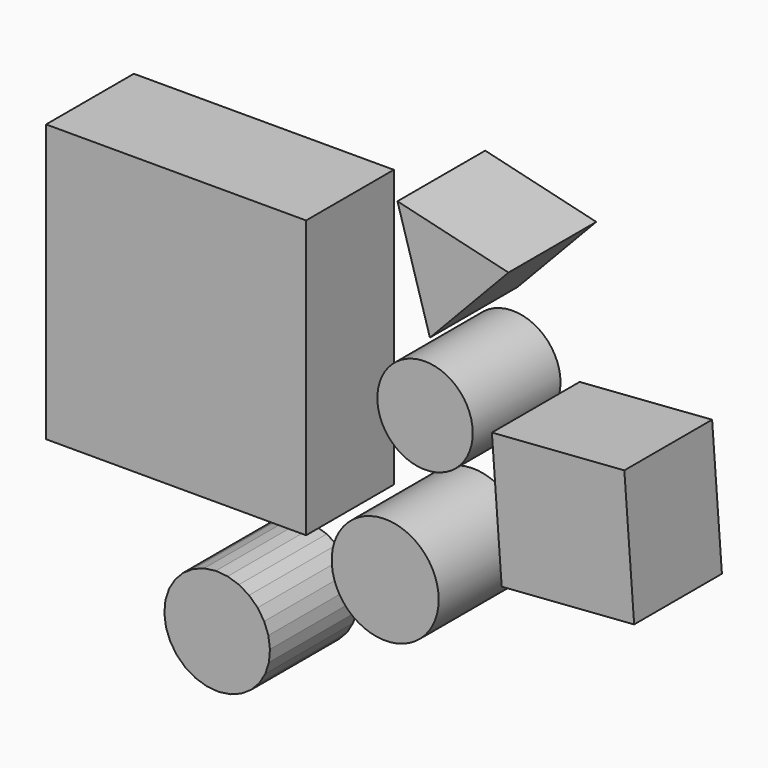
from build123d import *

# Parameters (mm, degrees)
F0_W     = 120.389337
F0_H     = 128.339571
F0_R     = 22.085124
F0_R_2   = 24.769336
F1_DEPTH = 25.4
F2_DEPTH = 25.4


with BuildPart() as f1:
    # F0 (on Front) → F1 (new body)
    with BuildSketch(Plane.XZ):
        with Locations((-72.687901, 31.091114)):
            Rectangle(F0_W, F0_H)
        with Locations((42.590559, 33.64655)):
            Circle(F0_R)
        with Locations((24.134653, -39.325286)):
            Circle(F0_R_2)
        Polygon((-37.947542, -104.342823), (-34.172483, -100.375812), (-31.374816, -95.668232), (-29.694827, -90.456142), (-29.216758, -85.000898), (-29.964581, -79.576047), (-31.900797, -74.453615), (-34.928317, -69.890461), (-38.895328, -66.115402), (-43.602908, -63.317735), (-48.814998, -61.637746), (-54.270242, -61.159677), (-59.695093, -61.9075), (-64.817525, -63.843716), (-69.380679, -66.871236), (-73.155738, -70.838247), (-75.953405, -75.545827), (-77.633394, -80.757917), (-78.111464, -86.213161), (-77.36364, -91.638012), (-75.427424, -96.760444), (-72.399904, -101.323598), (-68.432893, -105.098657), (-63.725314, -107.896324), (-58.513224, -109.576313), (-53.057979, -110.054382), (-47.633128, -109.306559), (-42.510696, -107.370343), align=None)
        Polygon((78.0827, -24.560563), (139.413114, -20.017557), (134.870107, 41.312857), (73.539694, 36.76985), align=None)
        Polygon((44.837683, 66.143148), (81.230387, 104.503058), (29.813379, 116.840109), align=None)
    extrude(amount=F1_DEPTH)

    # F0 (on Front) → F2 (join)
    with BuildSketch(Plane.XZ):
        with Locations((-72.687901, 31.091114)):
            Rectangle(F0_W, F0_H)
        with Locations((42.590559, 33.64655)):
            Circle(F0_R)
        with Locations((24.134653, -39.325286)):
            Circle(F0_R_2)
        Polygon((-37.947542, -104.342823), (-34.172483, -100.375812), (-31.374816, -95.668232), (-29.694827, -90.456142), (-29.216758, -85.000898), (-29.964581, -79.576047), (-31.900797, -74.453615), (-34.928317, -69.890461), (-38.895328, -66.115402), (-43.602908, -63.317735), (-48.814998, -61.637746), (-54.270242, -61.159677), (-59.695093, -61.9075), (-64.817525, -63.843716), (-69.380679, -66.871236), (-73.155738, -70.838247), (-75.953405, -75.545827), (-77.633394, -80.757917), (-78.111464, -86.213161), (-77.36364, -91.638012), (-75.427424, -96.760444), (-72.399904, -101.323598), (-68.432893, -105.098657), (-63.725314, -107.896324), (-58.513224, -109.576313), (-53.057979, -110.054382), (-47.633128, -109.306559), (-42.510696, -107.370343), align=None)
        Polygon((78.0827, -24.560563), (139.413114, -20.017557), (134.870107, 41.312857), (73.539694, 36.76985), align=None)
        Polygon((44.837683, 66.143148), (81.230387, 104.503058), (29.813379, 116.840109), align=None)
    extrude(amount=-F2_DEPTH)


solid = f1.part
